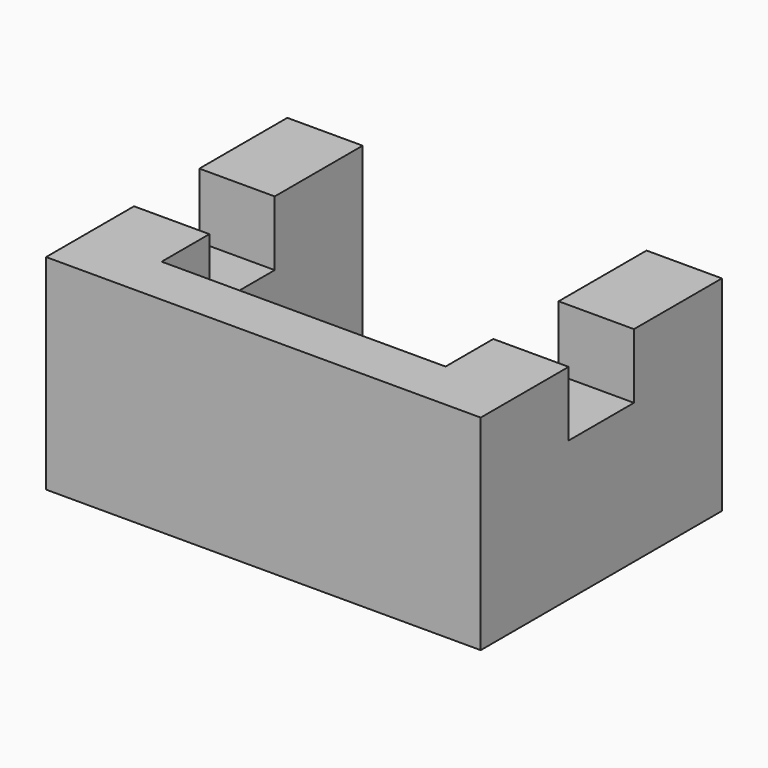
from build123d import *

# Parameters (mm, degrees)
F0_W     = 15
F0_H     = 60
F1_DEPTH = 28.5
F3_W     = 56.5
F3_H     = 50
F4_DEPTH = 28.501
F2_W     = 15
F2_H     = 21.875
F5_DEPTH = 12.25
F6_DEPTH = 71.5
F7_DEPTH = 40.751
F8_DEPTH = 0.66


with BuildPart() as f1:
    # F0 (on Top) → F1 (new body)
    with BuildSketch(Plane.XY):
        Rectangle(F0_W, F0_H)
    extrude(amount=F1_DEPTH)

    # F3 (on face) → F4 (cut, through all)
    with BuildSketch(Plane(origin=(0, 0, 0), x_dir=(1, 0, 0), z_dir=(0, 0, -1))):
        with Locations((35.75, -5)):
            Rectangle(F3_W, F3_H)
    extrude(amount=-F4_DEPTH, mode=Mode.SUBTRACT)

    # F2 (on face) → F5 (join)
    with BuildSketch(Plane.XY.offset(28.5)):
        with Locations((0, 19.0625)):
            Rectangle(F2_W, F2_H)
        with Locations((0, -19.0625)):
            Rectangle(F2_W, F2_H)
    extrude(amount=F5_DEPTH)

    # F6 (add): a face of the model
    f6_faces = [f1.faces().sort_by_distance(p)[0] for p in [
        (7.5, 0, 19.1119903993),
    ]]
    extrude(f6_faces, amount=F6_DEPTH)

    # F3 (on face) → F7 (cut, through all)
    with BuildSketch(Plane(origin=(0, 0, 0), x_dir=(1, 0, 0), z_dir=(0, 0, -1))):
        with Locations((35.75, -5)):
            Rectangle(F3_W, F3_H)
    extrude(amount=-F7_DEPTH, mode=Mode.SUBTRACT)

    # F8 (cut): faces of the model
    f8_faces = [f1.faces().sort_by_distance(p)[0] for p in [
        (0, 0, 28.5),
        (71.5, 0, 28.5),
    ]]
    extrude(f8_faces, amount=-F8_DEPTH, mode=Mode.SUBTRACT)


solid = f1.part
